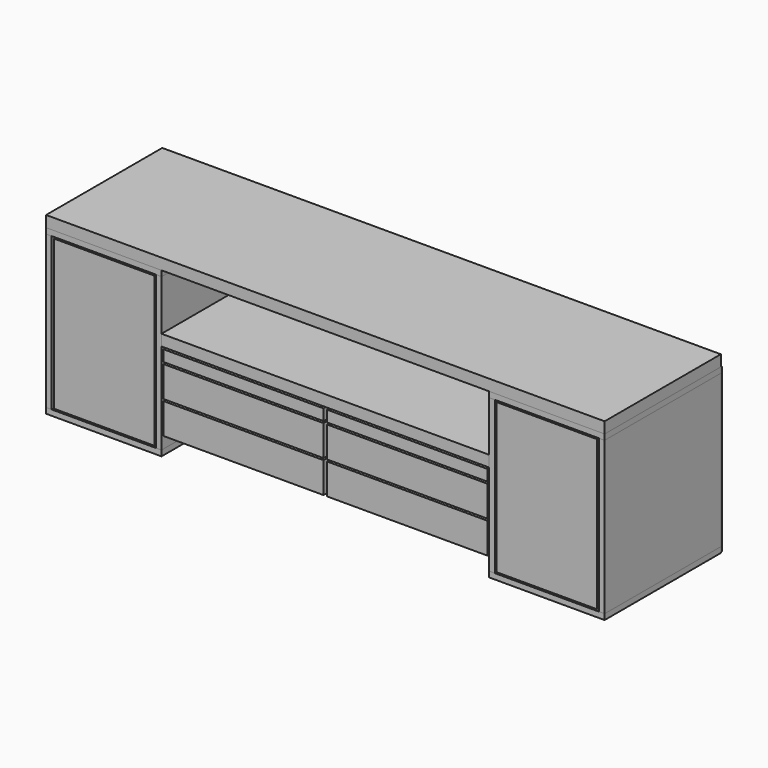
from build123d import *

# Parameters (mm, degrees)
F0_W      = 310
F0_H      = 390
F1_DEPTH  = 15
F3_W      = 15
F3_H      = 390
F4_DEPTH  = 410
F5_W      = 310
F5_H      = 390
F6_DEPTH  = 15
F7_W      = 308
F7_H      = 438
F8_DEPTH  = 5
F11_W     = 280
F11_H     = 360
F12_DEPTH = 15
F13_W     = 280
F13_H     = 360
F14_DEPTH = 15
F15_W     = 270
F15_H     = 402
F16_DEPTH = 15
F19_W     = 1500
F19_H     = 390
F20_DEPTH = 30
F22_W     = 880
F22_H     = 390
F23_DEPTH = 30
F25_W     = 430
F25_H     = 375
F26_DEPTH = 15
F27_W     = 15
F27_H     = 375
F28_DEPTH = 190
F29_W     = 430
F29_H     = 82.5
F30_DEPTH = 15
F29_H_2   = 30
F31_W     = 428
F31_H     = 203
F32_DEPTH = 5


with BuildPart() as f1:
    # F0 (on Top) → F1 (new body)
    with BuildSketch(Plane.XY):
        with Locations((155, 195)):
            Rectangle(F0_W, F0_H)
    extrude(amount=F1_DEPTH)


with BuildPart() as f4:
    # F3 (on offset) → F4 (new body)
    with BuildSketch(Plane.XY.offset(15)):
        with Locations((7.5, 195)):
            Rectangle(F3_W, F3_H)
    extrude(amount=F4_DEPTH)

    # F11 (on offset) → F12 (join)
    with BuildSketch(Plane.XY.offset(140)):
        with Locations((155, 200)):
            Rectangle(F11_W, F11_H)
    extrude(amount=F12_DEPTH)


with BuildPart() as f4b:
    # F3 (on offset) → F4, piece 2 (new body)
    with BuildSketch(Plane.XY.offset(15)):
        with Locations((302.5, 195)):
            Rectangle(F3_W, F3_H)
    extrude(amount=F4_DEPTH)


with BuildPart() as f6:
    # F5 (on face) → F6 (new body)
    with BuildSketch(Plane.XY.offset(425)):
        with Locations((155, 195)):
            Rectangle(F5_W, F5_H)
    extrude(amount=F6_DEPTH)


with BuildPart() as f8:
    # F7 (on face) → F8 (new body)
    with BuildSketch(Plane(origin=(0, 390, 0), x_dir=(-1, 0, 0), z_dir=(0, 1, 0))):
        with Locations((-155, 220)):
            Rectangle(F7_W, F7_H)
    extrude(amount=F8_DEPTH)


with BuildPart() as f14:
    # F13 (on offset) → F14 (new body)
    with BuildSketch(Plane.XY.offset(280)):
        with Locations((155, 200)):
            Rectangle(F13_W, F13_H)
    extrude(amount=F14_DEPTH)


with BuildPart() as f16:
    # F15 (on face) → F16 (new body)
    with BuildSketch(Plane.XZ):
        with Locations((156, 220)):
            Rectangle(F15_W, F15_H)
    extrude(amount=-F16_DEPTH)


with BuildPart() as f18_1:
    # F18: instance of F1
    add(f1.part.mirror(Plane.YZ.offset(750)))


with BuildPart() as f18_2:
    # F18: instance of F4
    add(f4.part.mirror(Plane.YZ.offset(750)))


with BuildPart() as f18_3:
    # F18: instance of F4b
    add(f4b.part.mirror(Plane.YZ.offset(750)))


with BuildPart() as f18_4:
    # F18: instance of F8
    add(f8.part.mirror(Plane.YZ.offset(750)))


with BuildPart() as f18_5:
    # F18: instance of F6
    add(f6.part.mirror(Plane.YZ.offset(750)))


with BuildPart() as f18_6:
    # F18: instance of F14
    add(f14.part.mirror(Plane.YZ.offset(750)))


with BuildPart() as f18_7:
    # F18: instance of F16
    add(f16.part.mirror(Plane.YZ.offset(750)))


with BuildPart() as f20:
    # F19 (on face) → F20 (new body)
    with BuildSketch(Plane.XY.offset(440)):
        with Locations((750, 195)):
            Rectangle(F19_W, F19_H)
    extrude(amount=F20_DEPTH)


with BuildPart() as f23:
    # F22 (on offset) → F23 (new body)
    with BuildSketch(Plane(origin=(0, 0, 260), x_dir=(1, 0, 0), z_dir=(0, 0, -1))):
        with Locations((750, -195)):
            Rectangle(F22_W, F22_H)
    extrude(amount=-F23_DEPTH)


with BuildPart() as f26:
    # F25 (on offset) → F26 (new body)
    with BuildSketch(Plane.XY.offset(50)):
        with Locations((530, 202.5)):
            Rectangle(F25_W, F25_H)
    extrude(amount=F26_DEPTH)


with BuildPart() as f28:
    # F27 (on face) → F28 (new body)
    with BuildSketch(Plane.XY.offset(65)):
        with Locations((322.5, 202.5)):
            Rectangle(F27_W, F27_H)
    extrude(amount=F28_DEPTH)


with BuildPart() as f28b:
    # F27 (on face) → F28, piece 2 (new body)
    with BuildSketch(Plane.XY.offset(65)):
        with Locations((737.5, 202.5)):
            Rectangle(F27_W, F27_H)
    extrude(amount=F28_DEPTH)


with BuildPart() as f30:
    # F29 (on face) → F30 (new body)
    with BuildSketch(Plane.XZ.offset(-15)):
        with Locations((530, 91.25)):
            Rectangle(F29_W, F29_H)
    extrude(amount=F30_DEPTH)


with BuildPart() as f30b:
    # F29 (on face) → F30, piece 2 (new body)
    with BuildSketch(Plane.XZ.offset(-15)):
        with Locations((530, 178.75)):
            Rectangle(F29_W, F29_H)
    extrude(amount=F30_DEPTH)


with BuildPart() as f30c:
    # F29 (on face) → F30, piece 3 (new body)
    with BuildSketch(Plane.XZ.offset(-15)):
        with Locations((530, 240)):
            Rectangle(F29_W, F29_H_2)
    extrude(amount=F30_DEPTH)


with BuildPart() as f32:
    # F31 (on face) → F32 (new body)
    with BuildSketch(Plane(origin=(0, 390, 0), x_dir=(-1, 0, 0), z_dir=(0, 1, 0))):
        with Locations((-530, 152.5)):
            Rectangle(F31_W, F31_H)
    extrude(amount=F32_DEPTH)


with BuildPart() as f33_1:
    # F33: instance of F26
    add(f26.part.mirror(Plane.YZ.offset(750)))


with BuildPart() as f33_2:
    # F33: instance of F30c
    add(f30c.part.mirror(Plane.YZ.offset(750)))


with BuildPart() as f33_3:
    # F33: instance of F30b
    add(f30b.part.mirror(Plane.YZ.offset(750)))


with BuildPart() as f33_4:
    # F33: instance of F30
    add(f30.part.mirror(Plane.YZ.offset(750)))


with BuildPart() as f33_5:
    # F33: instance of F28b
    add(f28b.part.mirror(Plane.YZ.offset(750)))


with BuildPart() as f33_6:
    # F33: instance of F32
    add(f32.part.mirror(Plane.YZ.offset(750)))


solid = Compound([f1.part, f4.part, f4b.part, f6.part, f8.part, f14.part, f16.part, f18_1.part, f18_2.part, f18_3.part, f18_4.part, f18_5.part, f18_6.part, f18_7.part, f20.part, f23.part, f26.part, f28.part, f28b.part, f30.part, f30b.part, f30c.part, f32.part, f33_1.part, f33_2.part, f33_3.part, f33_4.part, f33_5.part, f33_6.part])
